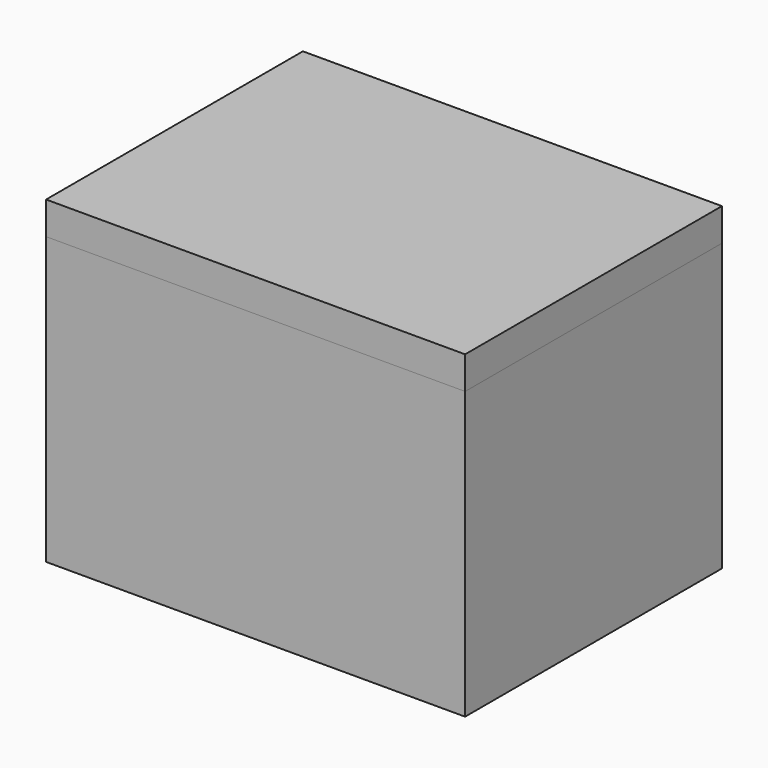
from build123d import *

# Parameters (mm, degrees)
F0_W     = 124.713998
F0_H     = 111.252006
F1_DEPTH = 162.814
F2_W     = 146.446304
F2_H     = 105.582983
F3_DEPTH = 97.028
F5_W     = 162.814
F5_H     = 124.713998
F6_DEPTH = 12.7


with BuildPart() as f1:
    # F0 (on Right) → F1 (new body)
    with BuildSketch(Plane.YZ):
        with Locations((6.096, 0.632355)):
            Rectangle(F0_W, F0_H)
    extrude(amount=F1_DEPTH)

    # F2 (on face) → F3 (cut)
    with BuildSketch(Plane.XY.offset(56.258358)):
        with Locations((81.236056, 7.100009)):
            Rectangle(F2_W, F2_H)
    extrude(amount=-F3_DEPTH, mode=Mode.SUBTRACT)


with BuildPart() as f6:
    # F5 (on face) → F6 (new body, symmetric)
    with BuildSketch(Plane.XY.offset(56.258358)):
        with Locations((81.407, 6.096)):
            Rectangle(F5_W, F5_H)
    extrude(amount=F6_DEPTH, both=True)

    # F7: cut F1
    add(f1.part, mode=Mode.SUBTRACT)


solid = Compound([f1.part, f6.part])
